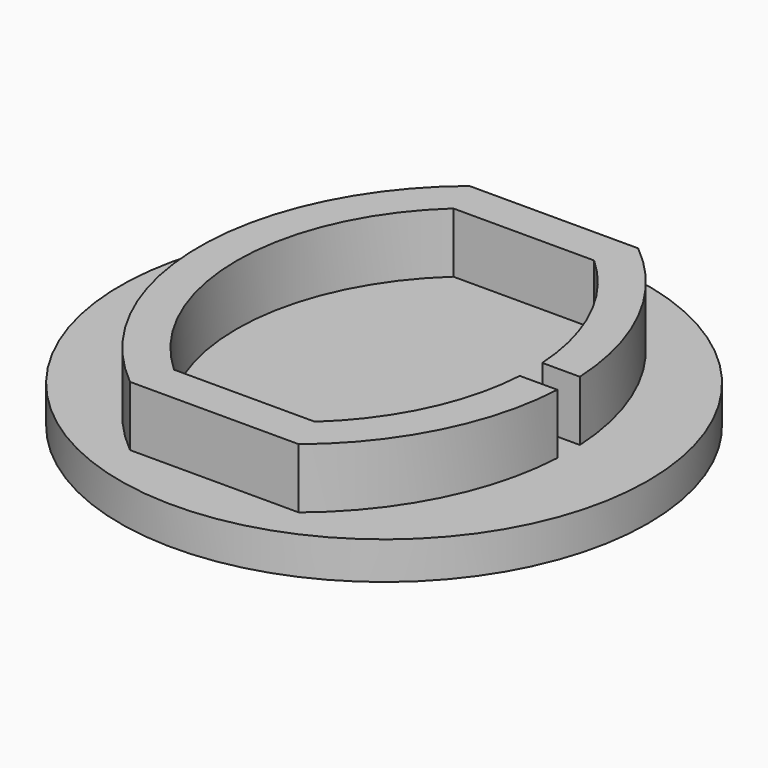
from build123d import *

# Parameters (mm, degrees)
F1_DEPTH = 3.2
F2_R     = 14.060754
F3_DEPTH = 2


with BuildPart() as f1:
    # F0 (on Top) → F1 (new body)
    with BuildSketch(Plane.XY):
        with BuildLine():
            ThreePointArc((-5.086545, -8.556186), (-9.186545, 0.743814), (-5.086545, 10.043814))
            Line((-5.086545, 10.043814), (2.413455, 10.043814))
            ThreePointArc((2.413455, 10.043814), (5.286519, 6.166676), (6.491109, 1.493814))
            Line((6.491109, 1.493814), (8.494175, 1.493814))
            ThreePointArc((8.494175, 1.493814), (6.941519, 7.333341), (3.15704, 12.043814))
            Line((3.15704, 12.043814), (-5.83013, 12.043814))
            ThreePointArc((-5.83013, 12.043814), (-11.186545, 0.743814), (-5.83013, -10.556186))
            Line((-5.83013, -10.556186), (3.15704, -10.556186))
            ThreePointArc((3.15704, -10.556186), (6.941519, -5.845714), (8.494175, -0.006186))
            Line((8.494175, -0.006186), (6.491109, -0.006186))
            ThreePointArc((6.491109, -0.006186), (5.286519, -4.679049), (2.413455, -8.556186))
            Line((2.413455, -8.556186), (-5.086545, -8.556186))
        make_face()
    extrude(amount=F1_DEPTH)

    # F2 (on Top) → F3 (join)
    with BuildSketch(Plane.XY):
        with Locations((-1.336545, 0.743814)):
            Circle(F2_R)
    extrude(amount=-F3_DEPTH)


solid = f1.part
